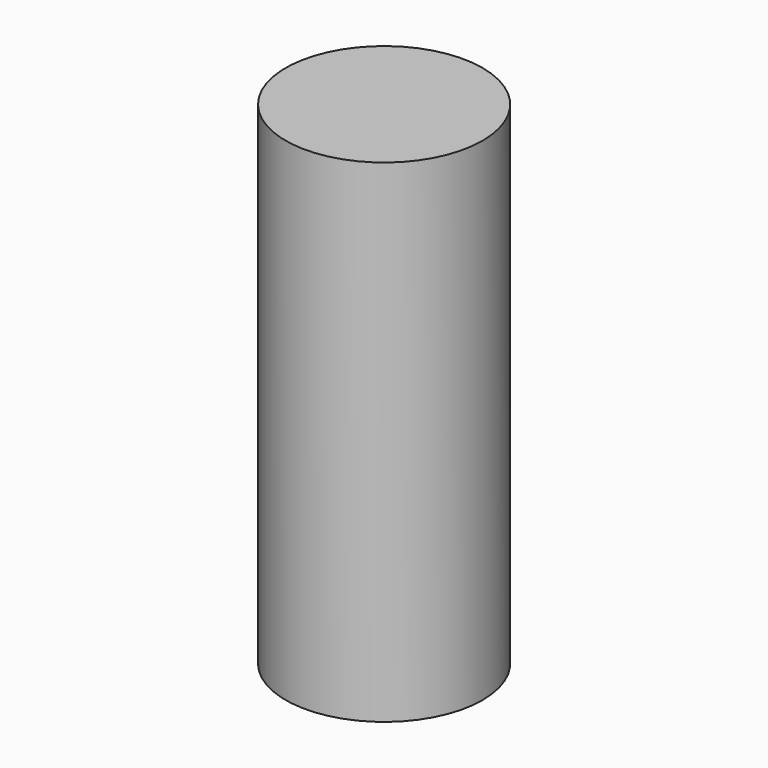
from build123d import *

# Parameters (mm, degrees)
CYLINDER_R        = 2
CYLINDER_DEPTH    = 10
CYLINDER001_R     = 2
CYLINDER001_DEPTH = 10


with BuildPart() as cylinder:
    # Cylinder → Cylinder (new body)
    with BuildSketch(Plane.XY):
        Circle(CYLINDER_R)
    extrude(amount=CYLINDER_DEPTH)


with BuildPart() as cylinder001:
    # Cylinder001 → Cylinder001 (new body)
    with BuildSketch(Plane.XY):
        Circle(CYLINDER001_R)
    extrude(amount=CYLINDER001_DEPTH)


solid = Compound([cylinder.part, cylinder001.part])
